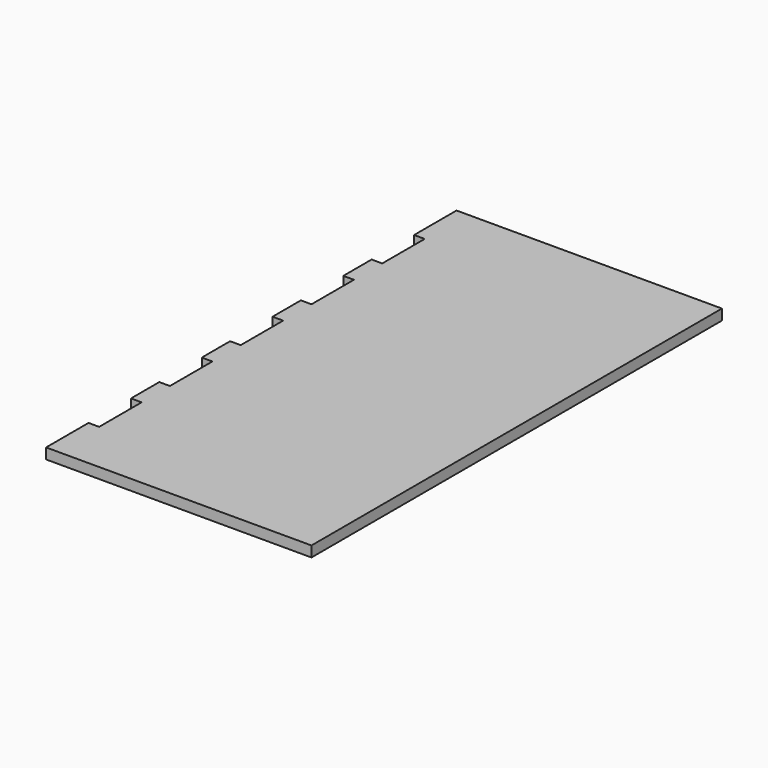
from build123d import *

# Parameters (mm, degrees)
F0_W     = 5.3952559829
F0_H     = 21.7885393649
F0_W_2   = 6.4328089356
F0_H_2   = 60.9454013749
F1_DEPTH = 12.5
F3_W     = 25
F3_H     = 62.590439771
F4_DEPTH = 146.2136954069
F5_DEPTH = 25
F6_W     = 3
F6_H     = 15
F6_W_2   = 50
F6_H_2   = 1.2136954069
F7_DEPTH = 3
F8_DEPTH = 25


with BuildPart() as f1:
    # F0 (on Right) → F1 (new body, symmetric)
    with BuildSketch(Plane.YZ):
        with Locations((-29.570158571, 3.008893691)):
            Rectangle(F0_W, F0_H)
        Polygon((113.9459088445, 18.5482017696), (-32.2677865624, 18.5482017696), (-32.2677865624, 13.9031633735), (-26.8725305796, 13.9031633735), (107.5130999088, 13.9031633735), (113.9459088445, 13.9031633735), align=None)
        with Locations((110.7295043766, -16.569537314)):
            Rectangle(F0_W_2, F0_H_2)
        with Locations((-29.570158571, 3.008893691)):
            Rectangle(F0_W, F0_H)
        with Locations((110.7295043766, -16.569537314)):
            Rectangle(F0_W_2, F0_H_2)
        with Locations((-29.570158571, 3.008893691)):
            Rectangle(F0_W, F0_H)
    extrude(amount=F1_DEPTH, both=True)

    # F3 (on face) → F4 (cut, through all)
    with BuildSketch(Plane(origin=(0, 113.9459088445, 0), x_dir=(-1, 0, 0), z_dir=(0, 1, 0))):
        with Locations((0, -15.7470181159)):
            Rectangle(F3_W, F3_H)
    extrude(amount=-F4_DEPTH, mode=Mode.SUBTRACT)

    # F5 (add): a face of the model
    f5_faces = [f1.faces().sort_by_distance(p)[0] for p in [
        (-12.5, 40.839061141, 17.0482017696),
    ]]
    extrude(f5_faces, amount=F5_DEPTH)

    # F6 (on face) → F7 (cut, through all)
    with BuildSketch(Plane.XY.offset(18.5482017696)):
        with Locations((-36, -9.7677865624)):
            Rectangle(F6_W, F6_H)
        with Locations((-36, 15.2322134376)):
            Rectangle(F6_W, F6_H)
        with Locations((-36, 40.2322134376)):
            Rectangle(F6_W, F6_H)
        with Locations((-36, 65.2322134376)):
            Rectangle(F6_W, F6_H)
        with Locations((-36, 90.2322134376)):
            Rectangle(F6_W, F6_H)
        with Locations((-12.5, 113.339061141)):
            Rectangle(F6_W_2, F6_H_2)
    extrude(amount=-F7_DEPTH, mode=Mode.SUBTRACT)

    # F8 (add): a face of the model
    f8_faces = [f1.faces().sort_by_distance(p)[0] for p in [
        (12.5, 40.2322134376, 17.0482017696),
    ]]
    extrude(f8_faces, amount=F8_DEPTH)


solid = f1.part
